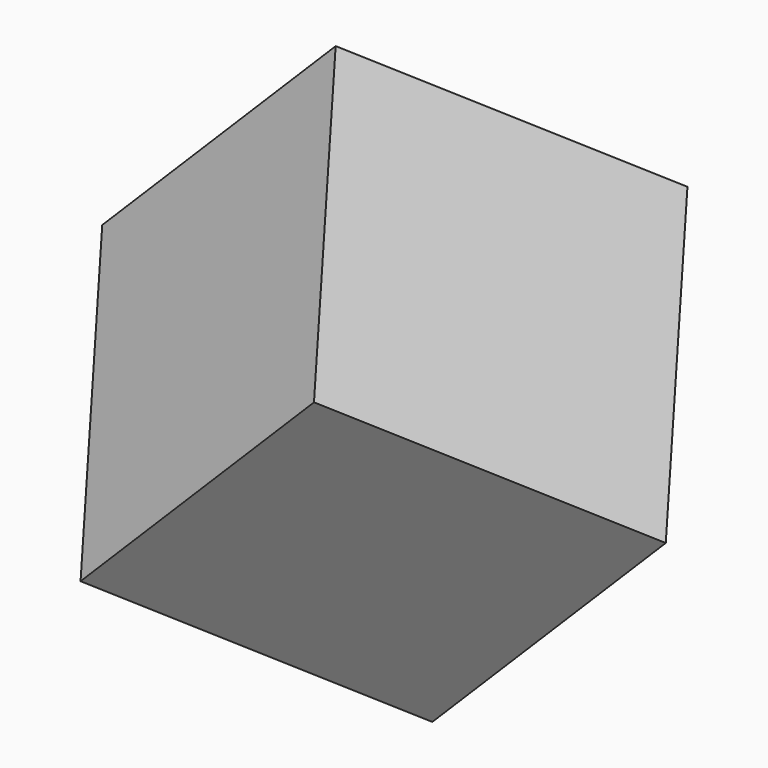
from build123d import *

# Parameters (mm, degrees)
F0_W     = 50.0006489456
F0_H     = 50.0006489456
F1_DEPTH = 50
F3_ANGLE = 45
F5_ANGLE = 45


with BuildPart() as f1:
    # F0 (on Top) → F1 (new body)
    with BuildSketch(Plane.XY):
        Rectangle(F0_W, F0_H)
    extrude(amount=F1_DEPTH)


with BuildPart() as f1_1:
    # F2: moved
    add(f1.part.moved(Location((0, 0, -25))))


with BuildPart() as f1_2:
    # F3: moved
    add(f1_1.part.rotate(Axis((25.0003244728, -25.0003244728, 0), (0, 0, -1)), F3_ANGLE))


with BuildPart() as f1_3:
    # F5: moved
    add(f1_2.part.rotate(Axis((0, 20.7308493555, 0), (0, 1, 0)), F5_ANGLE))


solid = f1_3.part
